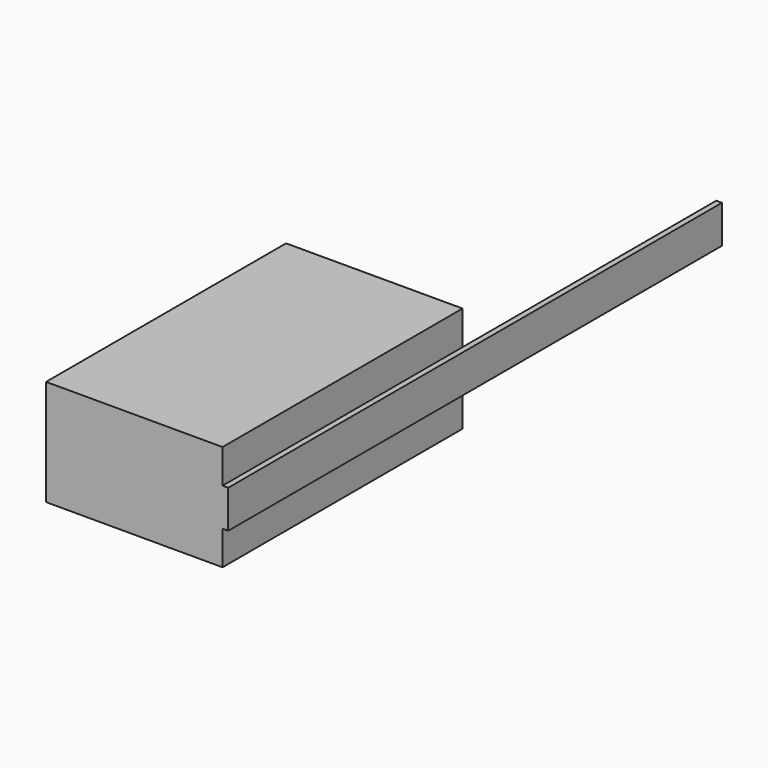
from build123d import *

# Parameters (mm, degrees)
F0_W     = 15.875
F0_H     = 9.525
F1_DEPTH = 26.9875
F2_W     = 28.530914
F2_H     = 1.703672
F2_W_2   = 26.9875
F3_DEPTH = 0.508


with BuildPart() as f1:
    # F0 (on Front) → F1 (new body)
    with BuildSketch(Plane.XZ):
        Rectangle(F0_W, F0_H)
    extrude(amount=F1_DEPTH)

    # F2 (on face) → F3 (join)
    with BuildSketch(Plane.YZ.offset(7.9375)):
        with Locations((14.265457, 0.851836)):
            Rectangle(F2_W, F2_H)
        with Locations((-13.49375, 0.851836)):
            Rectangle(F2_W_2, F2_H)
        with Locations((-13.49375, -0.851836)):
            Rectangle(F2_W_2, F2_H)
        with Locations((14.265457, -0.851836)):
            Rectangle(F2_W, F2_H)
    extrude(amount=F3_DEPTH)


solid = f1.part
